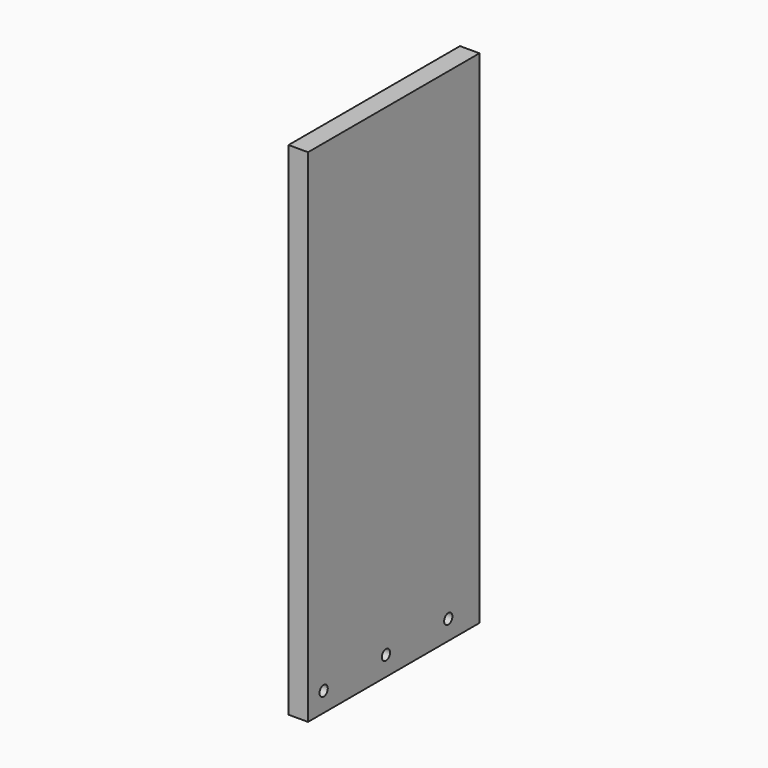
from build123d import *

# Parameters (mm, degrees)
F0_W     = 127
F0_H     = 327.025
F0_W_2   = 12.7
F1_DEPTH = 12.7
F3_D     = 6.7564


with BuildPart() as f1:
    # F0 (on Right) → F1 (new body)
    with BuildSketch(Plane.YZ):
        with Locations((-76.2, 176.2125)):
            Rectangle(F0_W, F0_H)
        with Locations((-6.35, 176.2125)):
            Rectangle(F0_W_2, F0_H)
    extrude(amount=F1_DEPTH)

    # F3 (through all)
    with Locations(Plane.YZ.offset(12.7)):
        with Locations((-127, 25.4), (-76.2, 25.4), (-25.4, 25.4)):
            Hole(F3_D / 2)


solid = f1.part
